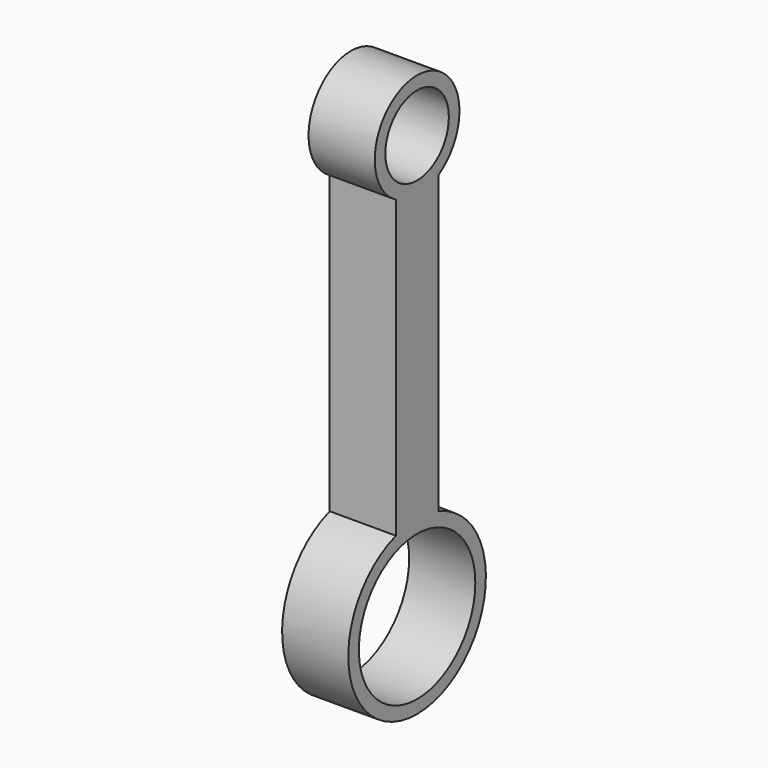
from build123d import *

# Parameters (mm, degrees)
F0_R     = 27.5
F0_R_2   = 15
F1_DEPTH = 12.5


with BuildPart() as f1:
    # F0 (on Right) → F1 (new body, symmetric)
    with BuildSketch(Plane.YZ):
        with BuildLine():
            Line((10, -49.076708), (10, 62.679492))
            ThreePointArc((10, 62.679492), (0, 100), (-10, 62.679492))
            Line((-10, 62.679492), (-10, -49.076708))
            ThreePointArc((-10, -49.076708), (0, -112.5), (10, -49.076708))
        make_face()
        with Locations((0, -80)):
            Circle(F0_R, mode=Mode.SUBTRACT)
        with Locations((0, 80)):
            Circle(F0_R_2, mode=Mode.SUBTRACT)
    extrude(amount=F1_DEPTH, both=True)


solid = f1.part
